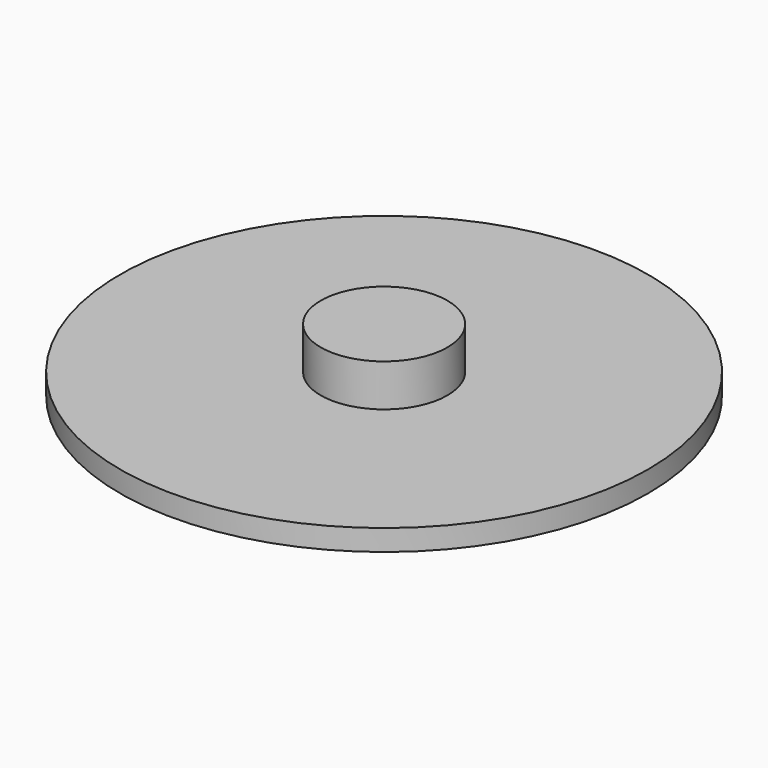
from build123d import *

# Parameters (mm, degrees)
SKETCH_R     = 12.5
PAD_DEPTH    = 1
SKETCH001_R  = 3
PAD001_DEPTH = 2


with BuildPart() as part:
    # Sketch → Pad (new body)
    with BuildSketch(Plane.XY):
        Circle(SKETCH_R)
    extrude(amount=PAD_DEPTH)

    # Sketch001 (on Face3 of Pad) → Pad001 (join)
    with BuildSketch(Plane.XY.offset(1)):
        Circle(SKETCH001_R)
    extrude(amount=PAD001_DEPTH)


solid = part.part
